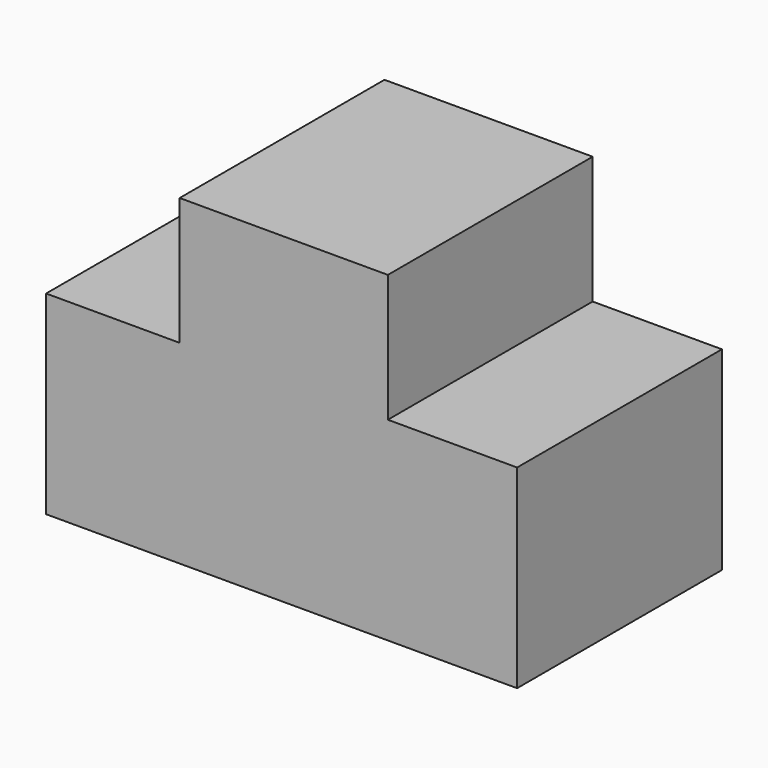
from build123d import *

# Parameters (mm, degrees)
F0_W     = 57.838557
F0_H     = 35.426117
F1_DEPTH = 71.12


with BuildPart() as f1:
    # F0 (on Front) → F1 (new body)
    with BuildSketch(Plane.XZ):
        with Locations((-0.240994, 22.773932)):
            Rectangle(F0_W, F0_H)
        Polygon((-29.160272, 5.060874), (-66.273347, 5.060874), (-66.273347, -48.921779), (64.586394, -48.921779), (64.586394, 5.060874), (28.678285, 5.060874), align=None)
    extrude(amount=F1_DEPTH)


solid = f1.part
